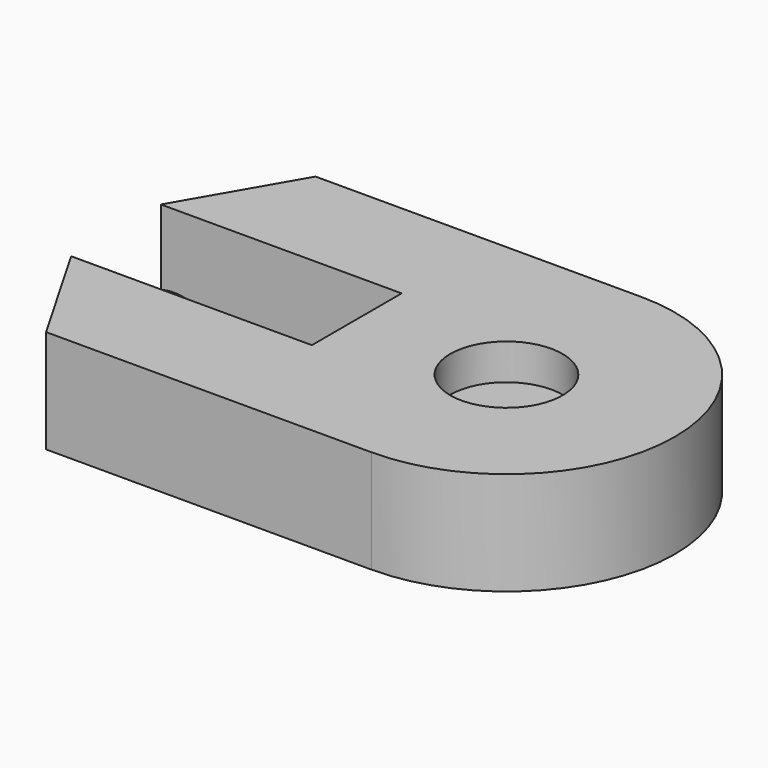
from build123d import *

# Parameters (mm, degrees)
F1_DEPTH = 5.842
F2_DEPTH = 3.81
F3_DEPTH = 2.032
F5_DEPTH = 0.508


with BuildPart() as f1:
    # F0 (on Top) → F1 (new body)
    with BuildSketch(Plane.XY):
        with BuildLine():
            ThreePointArc((3.175, 0), (0, 3.175), (-3.175, 0))
            ThreePointArc((-3.175, 0), (0, -3.175), (3.175, 0))
        make_face()
        with BuildLine():
            Line((-8.469026, -3.167854), (-8.982779, -3.167854))
            ThreePointArc((-8.982779, -3.167854), (-5.502355, -7.774942), (0, -9.525))
            ThreePointArc((0, -9.525), (9.525, 0), (0, 9.525))
            ThreePointArc((0, 9.525), (-5.499261, 7.77713), (-8.980256, 3.175))
            Line((-8.980256, 3.175), (-8.469026, 3.175))
            Line((-8.469026, 3.175), (-8.469026, 0))
            Line((-8.469026, 0), (-8.469026, -3.167854))
        make_face()
        with BuildLine():
            ThreePointArc((3.175, 0), (0, -3.175), (-3.175, 0))
            ThreePointArc((-3.175, 0), (0, 3.175), (3.175, 0))
        make_face(mode=Mode.SUBTRACT)
        with BuildLine():
            ThreePointArc((0, -9.525), (-5.502355, -7.774942), (-8.982779, -3.167854))
            Line((-8.982779, -3.167854), (-22.0853, -3.167854))
            Line((-22.0853, -3.167854), (-18.415, -9.525))
            Line((-18.415, -9.525), (-12.065, -9.525))
            Line((-12.065, -9.525), (-9.525, -9.525))
            Line((-9.525, -9.525), (0, -9.525))
        make_face()
        with BuildLine():
            ThreePointArc((-8.980256, 3.175), (-5.499261, 7.77713), (0, 9.525))
            Line((0, 9.525), (-9.525, 9.525))
            Line((-9.525, 9.525), (-12.065, 9.525))
            Line((-12.065, 9.525), (-18.415, 9.525))
            Line((-18.415, 9.525), (-22.081174, 3.175))
            Line((-22.081174, 3.175), (-8.980256, 3.175))
        make_face()
    extrude(amount=F1_DEPTH)

    # F0 (on Top) → F2 (join)
    with BuildSketch(Plane.XY):
        with BuildLine():
            ThreePointArc((3.175, 0), (0, 3.175), (-3.175, 0))
            ThreePointArc((-3.175, 0), (0, -3.175), (3.175, 0))
        make_face()
    extrude(amount=F2_DEPTH)

    # F0 (on Top) → F3 (cut)
    with BuildSketch(Plane.XY):
        with BuildLine():
            ThreePointArc((3.175, 0), (0, 3.175), (-3.175, 0))
            ThreePointArc((-3.175, 0), (0, -3.175), (3.175, 0))
        make_face()
    extrude(amount=F3_DEPTH, mode=Mode.SUBTRACT)

    # F4 (on face) → F5 (join)
    with BuildSketch(Plane(origin=(0, -3.167854, 0), x_dir=(-1, 0, 0), z_dir=(0, 1, 0))):
        with BuildLine():
            ThreePointArc((16.670343, 5.588), (13.876343, 2.794), (16.670343, 0))
            Line((16.670343, 0), (16.670343, 5.588))
        make_face()
        with BuildLine():
            Line((16.670343, 5.588), (16.670343, 0))
            ThreePointArc((16.670343, 0), (18.645999, 0.818344), (19.464343, 2.794))
            ThreePointArc((19.464343, 2.794), (18.645999, 4.769656), (16.670343, 5.588))
        make_face()
    extrude(amount=F5_DEPTH)


solid = f1.part
